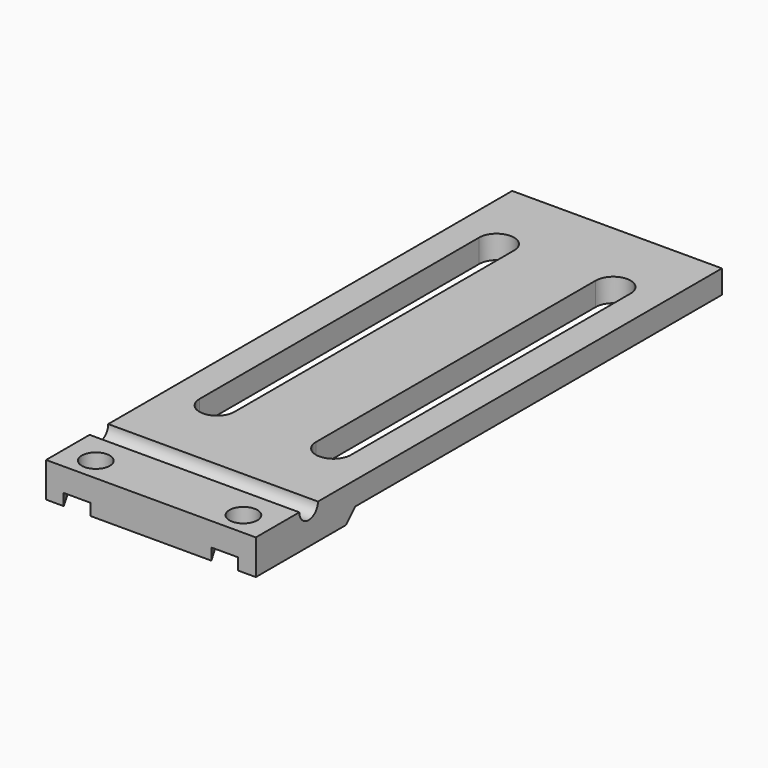
from build123d import *

# Parameters (mm, degrees)
F0_R     = 1.8
F1_DEPTH = 3
F3_DEPTH = 27
F4_DEPTH = 27
F5_DEPTH = 1.5


with BuildPart() as f1:
    # F0 (on Top) → F1 (new body)
    with BuildSketch(Plane.XY):
        Polygon((27, 0), (0, 0), (0, -75), (2.2679491924, -75), (0.5358983849, -72), (2.2679491924, -69), (5.7320508076, -69), (7.4641016151, -72), (5.7320508076, -75), (21.2679491924, -75), (19.5358983849, -72), (21.2679491924, -69), (24.7320508076, -69), (26.4641016151, -72), (24.7320508076, -75), (27, -75), align=None)
        with BuildLine():
            Line((3.75, -55), (3.75, -10))
            ThreePointArc((3.75, -10), (6, -7.75), (8.25, -10))
            Line((8.25, -10), (8.25, -55))
            ThreePointArc((8.25, -55), (6, -57.25), (3.75, -55))
        make_face(mode=Mode.SUBTRACT)
        with BuildLine():
            Line((18.75, -55), (18.75, -10))
            ThreePointArc((18.75, -10), (21, -7.75), (23.25, -10))
            Line((23.25, -10), (23.25, -55))
            ThreePointArc((23.25, -55), (21, -57.25), (18.75, -55))
        make_face(mode=Mode.SUBTRACT)
        Polygon((21.2679491924, -75), (24.7320508076, -75), (26.4641016151, -72), (24.7320508076, -69), (21.2679491924, -69), (19.5358983849, -72), align=None)
        with Locations((23, -72)):
            Circle(F0_R, mode=Mode.SUBTRACT)
        Polygon((0.5358983849, -72), (2.2679491924, -75), (5.7320508076, -75), (7.4641016151, -72), (5.7320508076, -69), (2.2679491924, -69), align=None)
        with Locations((4, -72)):
            Circle(F0_R, mode=Mode.SUBTRACT)
    extrude(amount=F1_DEPTH)

    # F2 (on face) → F3 (cut, through all)
    with BuildSketch(Plane.YZ.offset(27)):
        with BuildLine():
            Line((-65, 3), (-68, 3))
            ThreePointArc((-68, 3), (-66.5, 1.5), (-65, 3))
        make_face()
    extrude(amount=-F3_DEPTH, mode=Mode.SUBTRACT)

    # F2 (on face) → F4 (join, through all)
    with BuildSketch(Plane.YZ.offset(27)):
        Polygon((-59, 0), (-75, 0), (-75, -1.5), (-60.5, -1.5), align=None)
    extrude(amount=-F4_DEPTH)

    # F0 (on Top) → F5 (cut, through all)
    with BuildSketch(Plane.XY):
        Polygon((0.5358983849, -72), (2.2679491924, -75), (5.7320508076, -75), (7.4641016151, -72), (5.7320508076, -69), (2.2679491924, -69), align=None)
        with Locations((4, -72)):
            Circle(F0_R, mode=Mode.SUBTRACT)
        Polygon((21.2679491924, -75), (24.7320508076, -75), (26.4641016151, -72), (24.7320508076, -69), (21.2679491924, -69), (19.5358983849, -72), align=None)
        with Locations((23, -72)):
            Circle(F0_R, mode=Mode.SUBTRACT)
        with Locations((4, -72)):
            Circle(F0_R)
        with Locations((23, -72)):
            Circle(F0_R)
    extrude(amount=-F5_DEPTH, mode=Mode.SUBTRACT)


solid = f1.part
